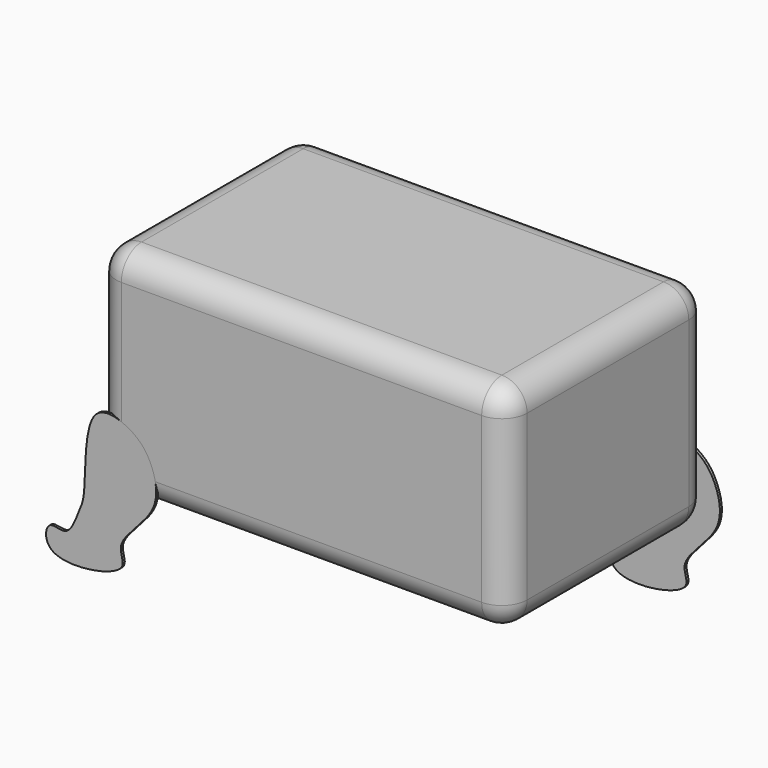
from build123d import *

# Parameters (mm, degrees)
F0_W     = 82.6371982694
F0_H     = 43.229283765
F1_DEPTH = 50.8
F2_R     = 5.08
F3_T     = -2.54
F5_DEPTH = 0.508


with BuildPart() as f1:
    # F0 (on Front) → F1 (new body)
    with BuildSketch(Plane.XZ):
        with Locations((2.1495223045, -2.5077769533)):
            Rectangle(F0_W, F0_H)
    extrude(amount=F1_DEPTH)

    # F2
    f2_edges = [f1.edges().sort_by_distance(p)[0] for p in [
        (-39.169077, -50.8, -2.507777),
        (2.149522, -50.8, 19.106865),
        (2.149522, -50.8, -24.122419),
        (43.468121, -50.8, -2.507777),
        (43.468121, -25.4, 19.106865),
        (-39.169077, -25.4, 19.106865),
        (2.149522, 0, 19.106865),
        (43.468121, -25.4, -24.122419),
        (43.468121, 0, -2.507777),
        (2.149522, 0, -24.122419),
        (-39.169077, 0, -2.507777),
        (-39.169077, -25.4, -24.122419),
    ]]
    fillet(f2_edges, radius=F2_R)

    # F3 (hollow: no face is removed)
    offset(amount=F3_T, mode=Mode.SUBTRACT)


with BuildPart() as f5:
    # F4 (on Front) → F5 (new body)
    with BuildSketch(Plane.XZ):
        with BuildLine():
            add(Edge.make_bspline(
                [(-39.1690731049, -10.9864473343), (-37.4118554508, -9.2534497172), (-31.1544702458, -11.3037998426), (-27.5022130158, -16.4267162644), (-25.9793785854, -24.9535631467), (-36.2842641622, -32.0844894384), (-31.0752049079, -37.840912572), (-50.1119712026, -41.1060405264), (-49.2219689985, -32.1988908447), (-44.7510965286, -35.023786234), (-42.6137159991, -29.0029776425), (-40.9749117193, -26.0103393875), (-41.665018197, -13.4479903806), (-39.1690731049, -10.9864473343)],
                knots=[0, 0, 0, 0, 0.0929595675, 0.1809598057, 0.2767294909, 0.3885183892, 0.4562378242, 0.5855152968, 0.6575632704, 0.7186047145, 0.7947861265, 0.8679605934, 1, 1, 1, 1], degree=3))
        make_face()
    extrude(amount=F5_DEPTH)


with BuildPart() as f6_1:
    # F6: copy of F5
    add(f5.part)


with BuildPart() as f7_1:
    # F7: copy of F6_1
    add(f6_1.part.moved(Location((0, -50.292, 0))))


with BuildPart() as f8_1:
    # F8: copy of F6_1
    add(f6_1.part.moved(Location((73.152, 0, 0))))


solid = Compound([f1.part, f5.part, f6_1.part, f7_1.part, f8_1.part])
